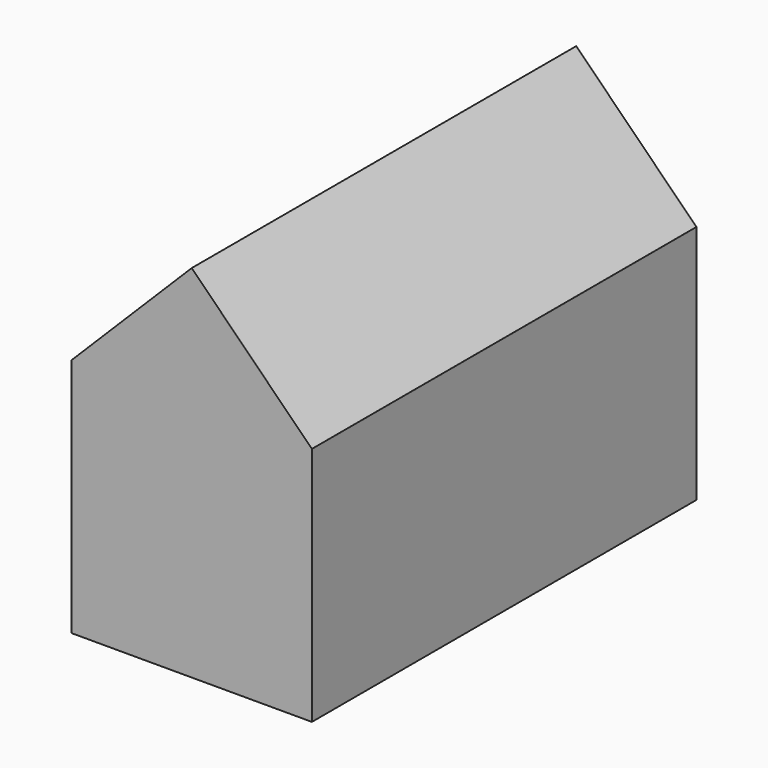
from build123d import *

# Parameters (mm, degrees)
BOX_W                  = 10
BOX_H                  = 20
BOX_DEPTH              = 10
BOX001_W               = 7.07
BOX001_H               = 20
BOX001_DEPTH           = 7.07
BOX001_PLACEMENT_ANGLE = 45


with BuildPart() as cub:
    # Box → Box (new body)
    with BuildSketch(Plane.XY):
        with Locations((5, 10)):
            Rectangle(BOX_W, BOX_H)
    extrude(amount=BOX_DEPTH)


with BuildPart() as fusion001:
    # Box001 → Box001 (new body)
    with BuildSketch(Plane.XY):
        with Locations((3.535, 10)):
            Rectangle(BOX001_W, BOX001_H)
    extrude(amount=BOX001_DEPTH)


with BuildPart() as fusion001_1:
    # Box001 placement: moved
    add(fusion001.part.moved(Location((0, 0, 10))).rotate(Axis((0, 0, 10), (0, 1, 0)), BOX001_PLACEMENT_ANGLE))

    # Fusion: union Cub
    add(cub.part)


solid = fusion001_1.part
